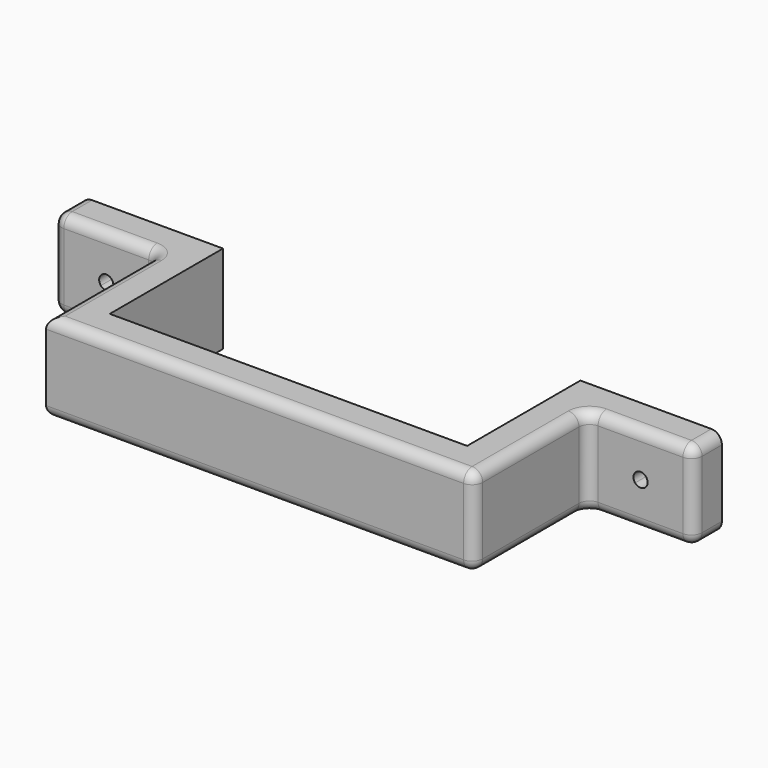
from build123d import *

# Parameters (mm, degrees)
F0_W     = 30
F0_H     = 10
F0_W_2   = 10
F0_H_2   = 30
F1_DEPTH = 25
F3_DEPTH = 25
F5_DEPTH = 25
F6_R     = 3


with BuildPart() as f1:
    # F0 (on Top) → F1 (new body)
    with BuildSketch(Plane.XY):
        with Locations((-78.2751372457, -5)):
            Rectangle(F0_W, F0_H)
        with Locations((-58.2751372457, -25)):
            Rectangle(F0_W_2, F0_H_2)
        Polygon((47.7248627543, 0), (47.7248627543, -40), (57.7248627543, -40), (57.7248627543, -10), (87.7248627543, -10), (87.7248627543, 0), align=None)
        with Locations((-58.2751372457, -5)):
            Rectangle(F0_W_2, F0_H)
        Polygon((47.7248627543, -40), (-53.2751372457, -40), (-63.2751372457, -40), (-63.2751372457, -50), (57.7248627543, -50), (57.7248627543, -40), align=None)
    extrude(amount=F1_DEPTH)

    # F2 (on face) → F3 (cut)
    with BuildSketch(Plane.XZ.offset(10)):
        with BuildLine():
            Line((74.2613053135, 13.7803687993), (72.7248627543, 12.5))
            Line((72.7248627543, 12.5), (74.2613053135, 11.2196312007))
            ThreePointArc((74.2613053135, 11.2196312007), (74.6054059097, 11.8191494725), (74.7248627543, 12.5))
            ThreePointArc((74.7248627543, 12.5), (74.6054059097, 13.1808505275), (74.2613053135, 13.7803687993))
        make_face()
        with BuildLine():
            Line((71.1884201952, 13.7803687993), (72.7248627543, 12.5))
            Line((72.7248627543, 12.5), (74.2613053135, 13.7803687993))
            ThreePointArc((74.2613053135, 13.7803687993), (72.7248627543, 14.5), (71.1884201952, 13.7803687993))
        make_face()
        with BuildLine():
            ThreePointArc((71.1884201952, 13.7803687993), (70.7248627543, 12.5), (71.1884201952, 11.2196312007))
            Line((71.1884201952, 11.2196312007), (72.7248627543, 12.5))
            Line((72.7248627543, 12.5), (71.1884201952, 13.7803687993))
        make_face()
        with BuildLine():
            Line((72.7248627543, 12.5), (71.1884201952, 11.2196312007))
            ThreePointArc((71.1884201952, 11.2196312007), (72.7248627543, 10.5), (74.2613053135, 11.2196312007))
            Line((74.2613053135, 11.2196312007), (72.7248627543, 12.5))
        make_face()
    extrude(amount=-F3_DEPTH, mode=Mode.SUBTRACT)

    # F4 (on face) → F5 (cut)
    with BuildSketch(Plane.XZ.offset(10)):
        with BuildLine():
            ThreePointArc((-79.8115798048, 11.2196312007), (-78.2751372457, 10.5), (-76.7386946865, 11.2196312007))
            Line((-76.7386946865, 11.2196312007), (-78.2751372457, 12.5))
            Line((-78.2751372457, 12.5), (-79.8115798048, 11.2196312007))
        make_face()
        with BuildLine():
            Line((-78.2751372457, 12.5), (-76.7386946865, 11.2196312007))
            ThreePointArc((-76.7386946865, 11.2196312007), (-76.3945940903, 11.8191494725), (-76.2751372457, 12.5))
            ThreePointArc((-76.2751372457, 12.5), (-76.3945940903, 13.1808505275), (-76.7386946865, 13.7803687993))
            Line((-76.7386946865, 13.7803687993), (-78.2751372457, 12.5))
        make_face()
        with BuildLine():
            Line((-79.8115798048, 13.7803687993), (-78.2751372457, 12.5))
            Line((-78.2751372457, 12.5), (-76.7386946865, 13.7803687993))
            ThreePointArc((-76.7386946865, 13.7803687993), (-78.2751372457, 14.5), (-79.8115798048, 13.7803687993))
        make_face()
        with BuildLine():
            Line((-79.8115798048, 11.2196312007), (-78.2751372457, 12.5))
            Line((-78.2751372457, 12.5), (-79.8115798048, 13.7803687993))
            ThreePointArc((-79.8115798048, 13.7803687993), (-80.2751372457, 12.5), (-79.8115798048, 11.2196312007))
        make_face()
    extrude(amount=-F5_DEPTH, mode=Mode.SUBTRACT)

    # F6
    f6_edges = [f1.edges().sort_by_distance(p)[0] for p in [
        (-93.275137, -10, 12.5),
        (-78.275137, -10, 0),
        (-63.275137, -30, 0),
        (-63.275137, -30, 25),
        (-63.275137, -10, 12.5),
        (-78.275137, -10, 25),
        (-2.775137, -50, 0),
        (-2.775137, -50, 25),
        (-93.275137, -5, 0),
        (57.724863, -50, 12.5),
        (57.724863, -30, 0),
        (72.724863, -10, 0),
        (72.724863, -10, 25),
        (87.724863, -10, 12.5),
        (87.724863, -5, 0),
        (87.724863, -5, 25),
        (57.724863, -30, 25),
        (57.724863, -10, 12.5),
        (-93.275137, -5, 25),
    ]]
    fillet(f6_edges, radius=F6_R)


solid = f1.part
